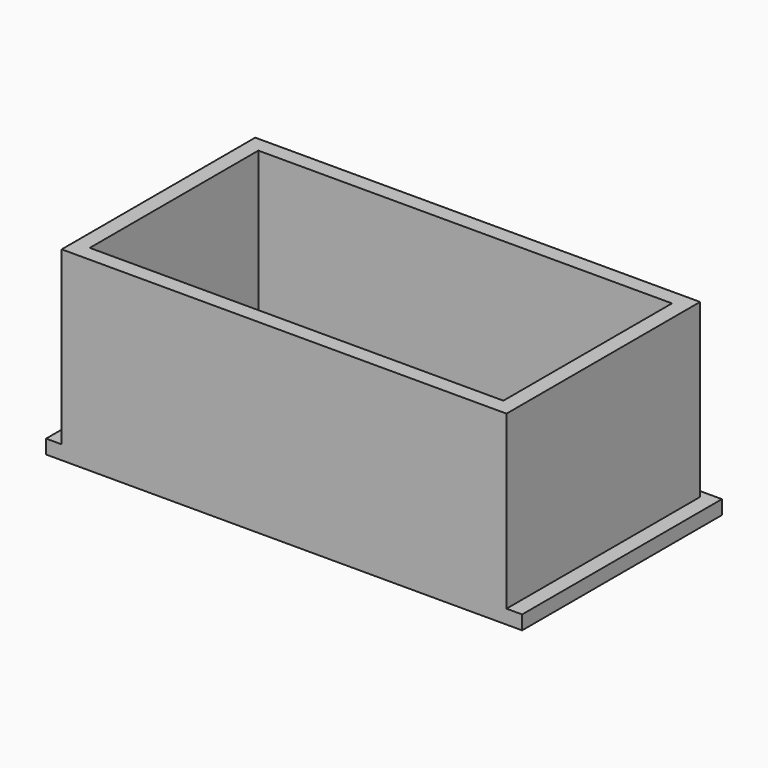
from build123d import *

# Parameters (mm, degrees)
SKETCH008_W   = 61
SKETCH008_H   = 31
SKETCH008_W_2 = 54
SKETCH008_H_2 = 27
PAD006_DEPTH  = 1.8
SKETCH009_W   = 57
SKETCH009_H   = 31
SKETCH009_W_2 = 53
SKETCH009_H_2 = 27
PAD007_DEPTH  = 22
PAD024_DEPTH  = 1


with BuildPart() as part:
    # Sketch008 → Pad006 (new body)
    with BuildSketch(Plane.XY.offset(59.5)):
        with Locations((29.5, -17)):
            Rectangle(SKETCH008_W, SKETCH008_H)
        with Locations((29.5, -17)):
            Rectangle(SKETCH008_W_2, SKETCH008_H_2, mode=Mode.SUBTRACT)
    extrude(amount=PAD006_DEPTH)

    # Sketch009 (on Face10 of Pad006) → Pad007 (join)
    with BuildSketch(Plane.XY.offset(61.3)):
        with Locations((29.5, -17)):
            Rectangle(SKETCH009_W, SKETCH009_H)
        with Locations((29.5, -17)):
            Rectangle(SKETCH009_W_2, SKETCH009_H_2, mode=Mode.SUBTRACT)
    extrude(amount=PAD007_DEPTH)

    # Pad007 Face1 → Pad024 (add)
    with BuildSketch(Plane(origin=(29.5, -1.5, 60.4), x_dir=(1, 0, 0), z_dir=(0, 1, 0))):
        Polygon((-30.5, 0.9), (-30.5, -0.9), (-28.5, -0.9), (28.5, -0.9), (30.5, -0.9), (30.5, 0.9), align=None)
    extrude(amount=PAD024_DEPTH)


solid = part.part
